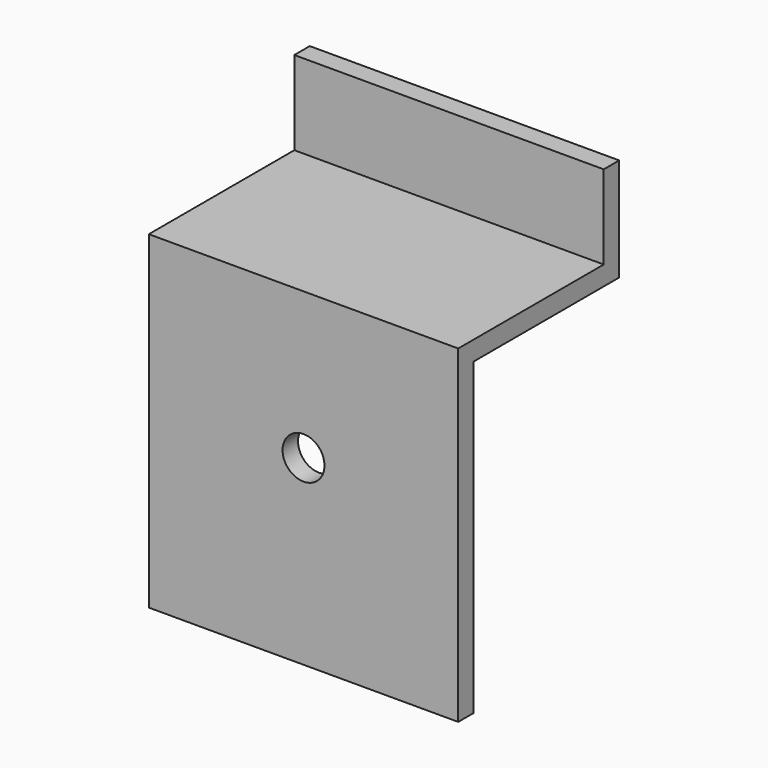
from build123d import *

# Parameters (mm, degrees)
F1_DEPTH = 76.2
F2_R     = 10.31875
F3_DEPTH = 9.525


with BuildPart() as f1:
    # F0 (on Right) → F1 (new body, symmetric)
    with BuildSketch(Plane.YZ):
        Polygon((0, 72.189311), (0, -89.735689), (9.525, -89.735689), (9.525, 62.664311), (99.096066, 62.664311), (99.096066, 113.464311), (89.571066, 113.464311), (89.571066, 72.189311), align=None)
    extrude(amount=F1_DEPTH, both=True)

    # F2 (on face) → F3 (cut, through all)
    with BuildSketch(Plane(origin=(0, 9.525, 0), x_dir=(-1, 0, 0), z_dir=(0, 1, 0))):
        Circle(F2_R)
    extrude(amount=-F3_DEPTH, mode=Mode.SUBTRACT)


solid = f1.part
